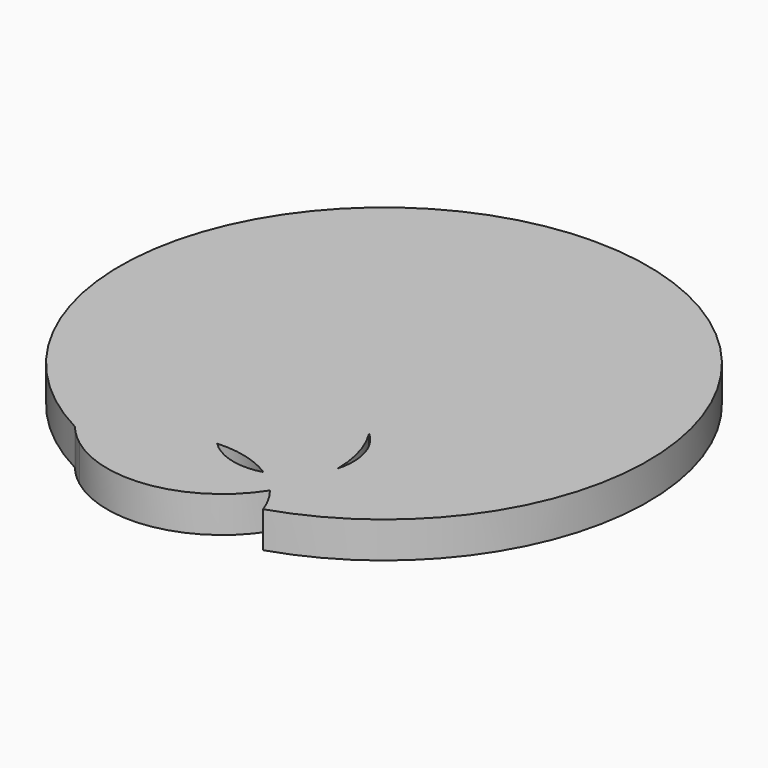
from build123d import *

# Parameters (mm, degrees)
F2_DEPTH = 25.4


with BuildPart() as f2:
    # F1 (on face) → F2 (new body)
    with BuildSketch(Plane.XY):
        with BuildLine():
            ThreePointArc((-25.2534394908, -35.5846442345), (-33.2434744834, -32.1222898493), (-41.0623713196, -28.2890915324))
            ThreePointArc((-41.0623713196, -28.2890915324), (-34.6694078728, -35.2392442574), (-27.5115300398, -41.3987401346))
            ThreePointArc((-27.5115300398, -41.3987401346), (-26.4491846953, -38.4657871282), (-25.2534394908, -35.5846442345))
        make_face()
        with BuildLine():
            ThreePointArc((101.0377228106, -40.4052836081), (60.3240118592, 321.4408513122), (-41.0623713196, -28.2890915324))
            ThreePointArc((-41.0623713196, -28.2890915324), (-33.2434744834, -32.1222898493), (-25.2534394908, -35.5846442345))
            ThreePointArc((-25.2534394908, -35.5846442345), (-1.9962240549, -7.3344068145), (32.5354171739, 4.7709530792))
            ThreePointArc((32.5354171739, 4.7709530792), (53.9519636073, 2.7494916851), (73.6652733787, -5.8609778232))
            ThreePointArc((73.6652733787, -5.8609778232), (91.9457639471, 4.7995852589), (102.7524875992, 22.9940532246))
            ThreePointArc((102.7524875992, 22.9940532246), (99.5008080427, 0.290805784), (90.0202864782, -20.5929337076))
            ThreePointArc((90.0202864782, -20.5929337076), (96.3604901181, -30.0367284599), (101.0377228106, -40.405283608))
        make_face()
        with BuildLine():
            ThreePointArc((90.1935880347, 66.3590575906), (102.7598417601, 46.4972709928), (102.7524875992, 22.9940532246))
            ThreePointArc((102.7524875992, 22.9940532246), (99.5530126023, 45.5685441103), (90.1935880347, 66.3590575906))
        make_face(mode=Mode.SUBTRACT)
        with BuildLine():
            ThreePointArc((-25.2534394908, -35.5846442345), (-26.4491846953, -38.4657871282), (-27.5115300398, -41.3987401346))
            ThreePointArc((-27.5115300398, -41.3987401346), (35.8222361629, -56.7996260508), (90.0202864782, -20.5929337076))
            ThreePointArc((90.0202864782, -20.5929337076), (82.4428646719, -12.5607581528), (73.6652733787, -5.8609778232))
            ThreePointArc((73.6652733787, -5.8609778232), (51.6649088864, -6.0980293026), (32.5354171739, 4.7709530792))
            ThreePointArc((32.5354171739, 4.7709530792), (-1.9962240549, -7.3344068145), (-25.2534394908, -35.5846442345))
        make_face()
        with BuildLine():
            ThreePointArc((73.6652733787, -5.8609778232), (82.4428646719, -12.5607581528), (90.0202864782, -20.5929337076))
            ThreePointArc((90.0202864782, -20.5929337076), (99.5008080427, 0.290805784), (102.7524875992, 22.9940532246))
            ThreePointArc((102.7524875992, 22.9940532246), (91.9457639471, 4.7995852589), (73.6652733787, -5.8609778232))
        make_face()
    extrude(amount=F2_DEPTH)


solid = f2.part
